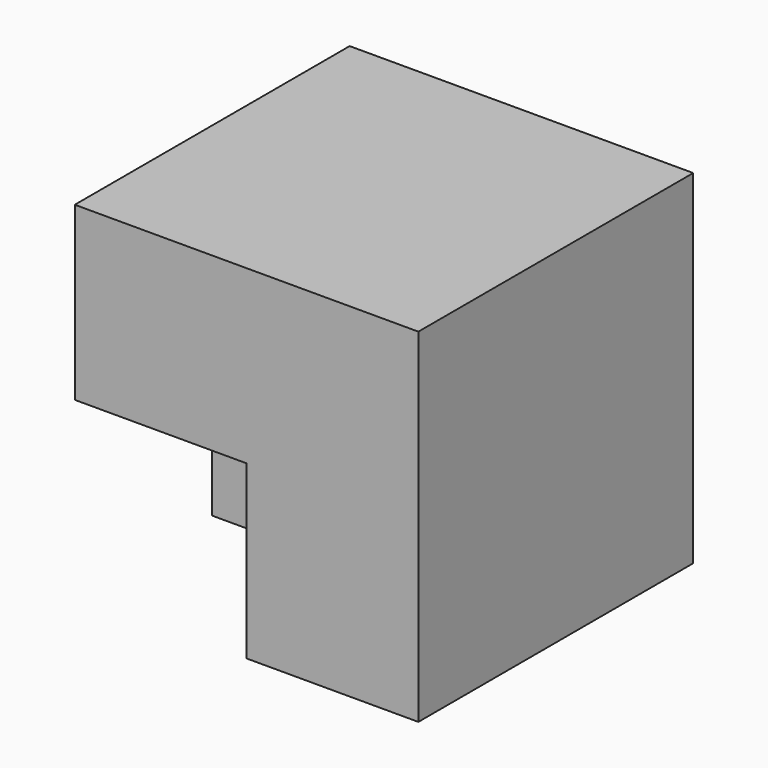
from build123d import *

# Parameters (mm, degrees)
F0_W     = 50.8
F0_H     = 50.8
F1_DEPTH = 50.8
F2_W     = 25.4
F2_H     = 25.4
F3_DEPTH = 25.4
F4_DEPTH = 25.4


with BuildPart() as f1:
    # F0 (on Front) → F1 (new body)
    with BuildSketch(Plane.XZ):
        with Locations((-2.580917, 8.309558)):
            Rectangle(F0_W, F0_H)
    extrude(amount=F1_DEPTH)

    # F2 (on face) → F3 (cut)
    with BuildSketch(Plane.XZ.offset(50.8)):
        with Locations((-15.280917, -4.390442)):
            Rectangle(F2_W, F2_H)
    extrude(amount=F3_DEPTH, mode=Mode.SUBTRACT)

    # F2 (on face) → F4 (cut)
    with BuildSketch(Plane.XZ.offset(50.8)):
        with Locations((-15.280917, -4.390442)):
            Rectangle(F2_W, F2_H)
    extrude(amount=-F4_DEPTH, mode=Mode.SUBTRACT)


solid = f1.part
